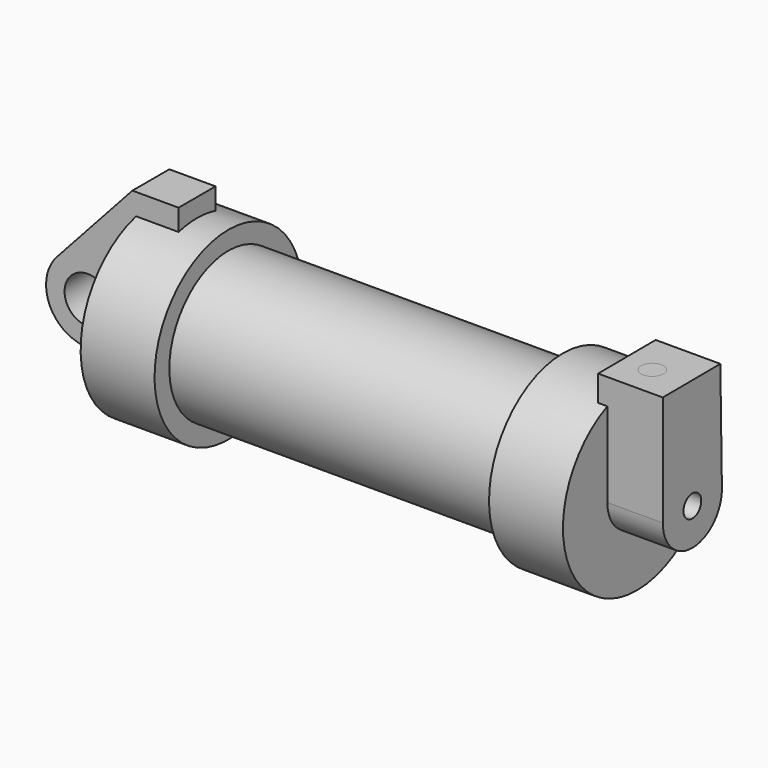
from build123d import *

# Parameters (mm, degrees)
F0_W          = 5.842
F0_H          = 12.7
F0_R          = 3.175
F2_DEPTH      = 3.175
F4_R          = 1.524
F5_DEPTH      = 7.62
F5_DEPTH_BACK = 1.27
F6_R          = 1.524
F7_DEPTH      = 9.69487
F8_R          = 1.524
F9_DEPTH      = 6.87652


with BuildPart() as f1:
    # F0 (on Front) → F1 (revolve)
    with BuildSketch(Plane.XZ):
        Polygon((5.842, 12.7), (5.842, 0), (66.294, 0), (66.294, 12.7), (56.134, 12.7), (56.134, 10.16), (10.16, 10.16), (10.16, 12.7), align=None)
        with Locations((2.921, 6.35)):
            Rectangle(F0_W, F0_H)
    revolve(axis=Axis((33.147, 0, 0), (-1, 0, 0)))

    # F0 (on Front) → F2 (join, symmetric)
    with BuildSketch(Plane.XZ):
        with BuildLine():
            Line((-0.9398, 0), (0, 0))
            Line((0, 0), (0, 12.7))
            Line((0, 12.7), (5.842, 12.7))
            Line((5.842, 12.7), (5.842, 15.24))
            Line((5.842, 15.24), (-0.508, 15.24))
            Line((-0.508, 15.24), (-10.88063, 3.847543))
            ThreePointArc((-10.88063, 3.847543), (-4.591961, 5.329721), (-0.9398, 0))
        make_face()
        with BuildLine():
            ThreePointArc((-8.182663, -5.506983), (-3.195791, -4.549339), (-0.9398, 0))
            ThreePointArc((-0.9398, 0), (-4.591961, 5.329721), (-10.88063, 3.847543))
            ThreePointArc((-10.88063, 3.847543), (-12.145978, -1.583727), (-8.182663, -5.506983))
        make_face()
        with Locations((-6.6548, 0)):
            Circle(F0_R, mode=Mode.SUBTRACT)
        with BuildLine():
            Line((5.842, 0), (0, 0))
            Line((0, 0), (-0.9398, 0))
            ThreePointArc((-0.9398, 0), (-3.195791, -4.549339), (-8.182663, -5.506983))
            Line((-8.182663, -5.506983), (5.842, -9.398))
            Line((5.842, -9.398), (5.842, 0))
        make_face()
        with Locations((2.921, 6.35)):
            Rectangle(F0_W, F0_H)
    extrude(amount=F2_DEPTH, both=True)

    # F4 (on face) → F5 (join, two sides)
    with BuildSketch(Plane.YZ.offset(66.294)) as f5_sk:
        with BuildLine():
            ThreePointArc((-5.076443, 0), (0.003557, -5.08), (5.083557, 0))
            ThreePointArc((5.083557, 0), (5.083354, 0.045348), (5.082747, 0.090693))
            ThreePointArc((5.082747, 0.090693), (-0.041792, 5.079798), (-5.076443, 0))
        make_face()
        with Locations((0.003557, 0)):
            Circle(F4_R, mode=Mode.SUBTRACT)
        with BuildLine():
            ThreePointArc((-5.076443, 0), (-0.041792, 5.079798), (5.082747, 0.090693))
            Line((5.082747, 0.090693), (4.812307, 15.236546))
            Line((4.812307, 15.236546), (-5.076443, 15.186192))
            Line((-5.076443, 15.186192), (-5.076443, 0))
        make_face()
    extrude(amount=F5_DEPTH)
    extrude(f5_sk.sketch, amount=-F5_DEPTH_BACK)

    # F6 (on face) → F7 (join)
    with BuildSketch(Plane(origin=(0, -0.077459, 15.211647), x_dir=(1, 0, 0), z_dir=(0, -0.005092, 0.999987))):
        with Locations((69.043599, -0.720831)):
            Circle(F6_R)
    extrude(amount=-F7_DEPTH)

    # F8 (on face) → F9 (join)
    with BuildSketch(Plane(origin=(0, -0.077459, 15.211647), x_dir=(1, 0, 0), z_dir=(0, -0.005092, 0.999987))):
        with Locations((69.499604, 0.040541)):
            Circle(F8_R)
    extrude(amount=-F9_DEPTH)


solid = f1.part
